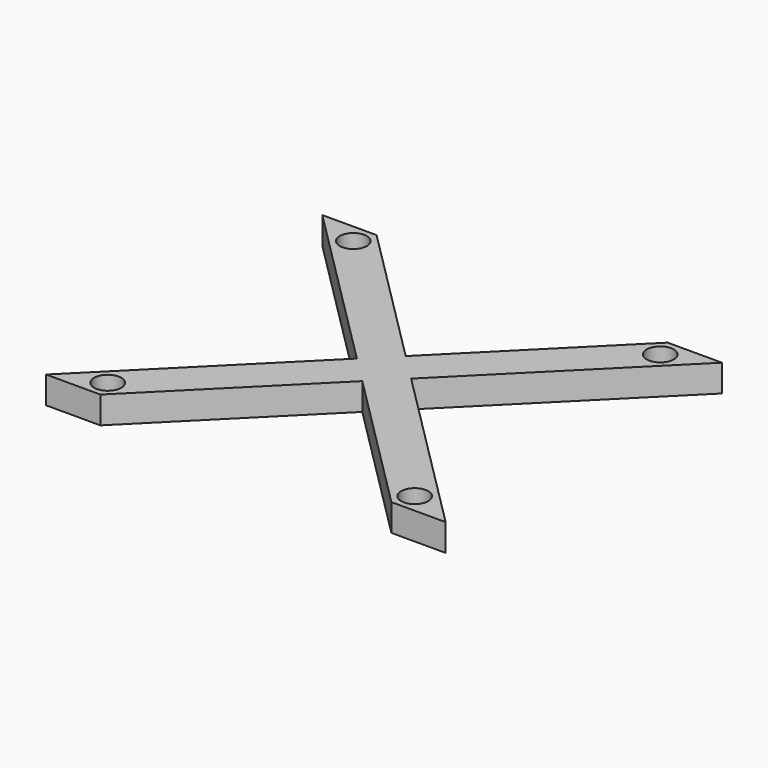
from build123d import *

# Parameters (mm, degrees)
F1_DEPTH = 10
F2_R     = 5
F2_R_2   = 5.0000678119
F3_DEPTH = 25


with BuildPart() as f1:
    # F0 (on Top) → F1 (new body)
    with BuildSketch(Plane.XY):
        Polygon((10, 127.279220223), (-10, 127.279220223), (53.6396103068, 63.6396103068), (63.6396102761, 73.6396102761), align=None)
        Polygon((63.6396102761, 73.6396102761), (53.6396103068, 63.6396103068), (63.6396103375, 53.6396103375), (73.6396103068, 63.6396103068), align=None)
        Polygon((117.2792206136, 127.2792206136), (63.6396102761, 73.6396102761), (73.6396103068, 63.6396103068), (137.2792206136, 127.2792206136), align=None)
        Polygon((73.6396103068, 63.6396103068), (63.6396103375, 53.6396103375), (117.2792210042, 0), (137.2792210042, 0), align=None)
        Polygon((63.6396103375, 53.6396103375), (53.6396103068, 63.6396103068), (-10, 0), (10, 0), align=None)
    extrude(amount=F1_DEPTH)

    # F2 (on face) → F3 (cut)
    with BuildSketch(Plane.XY.offset(10)):
        with Locations((7.0710959132, 120.208220223)):
            Circle(F2_R)
        with Locations((120.2081528017, 120.2081528017)):
            Circle(F2_R_2)
        with Locations((120.2083168306, 7.071)):
            Circle(F2_R)
        with Locations((7.0710959005, 7.071)):
            Circle(F2_R)
    extrude(amount=-F3_DEPTH, mode=Mode.SUBTRACT)


solid = f1.part
